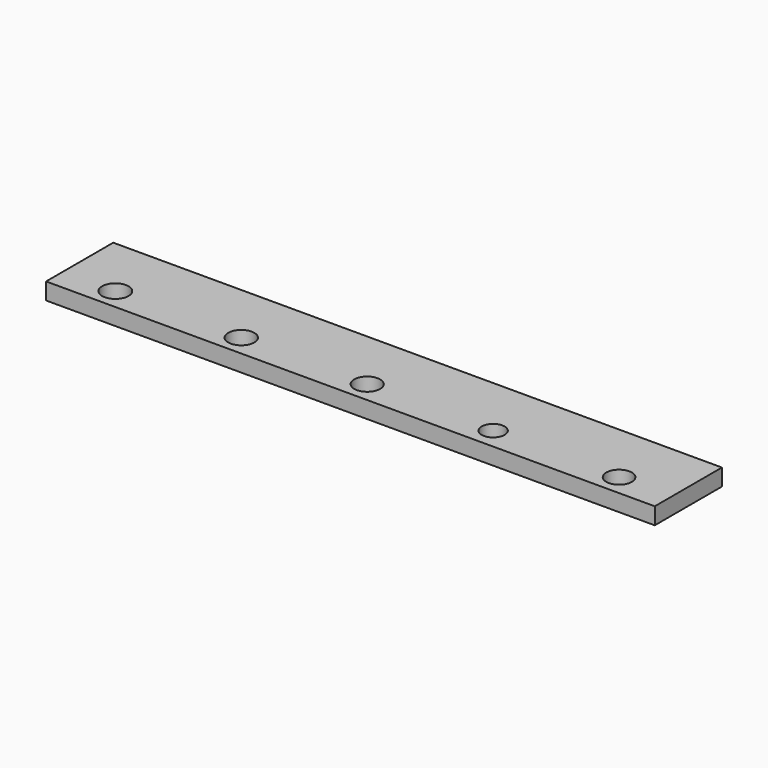
from build123d import *

# Parameters (mm, degrees)
F0_W     = 580
F0_H     = 80
F0_R     = 12.6
F0_R_2   = 12.440941
F0_R_3   = 12.33589
F0_R_4   = 10.936023
F0_R_5   = 12.16939
F1_DEPTH = 16


with BuildPart() as f1:
    # F0 (on Top) → F1 (new body)
    with BuildSketch(Plane.XY):
        Rectangle(F0_W, F0_H)
        with Locations((-240, -20)):
            Circle(F0_R, mode=Mode.SUBTRACT)
        with Locations((-120, -20)):
            Circle(F0_R_2, mode=Mode.SUBTRACT)
        with Locations((0, -20)):
            Circle(F0_R_3, mode=Mode.SUBTRACT)
        with Locations((120, -20)):
            Circle(F0_R_4, mode=Mode.SUBTRACT)
        with Locations((240, -20)):
            Circle(F0_R_5, mode=Mode.SUBTRACT)
    extrude(amount=F1_DEPTH)


solid = f1.part
